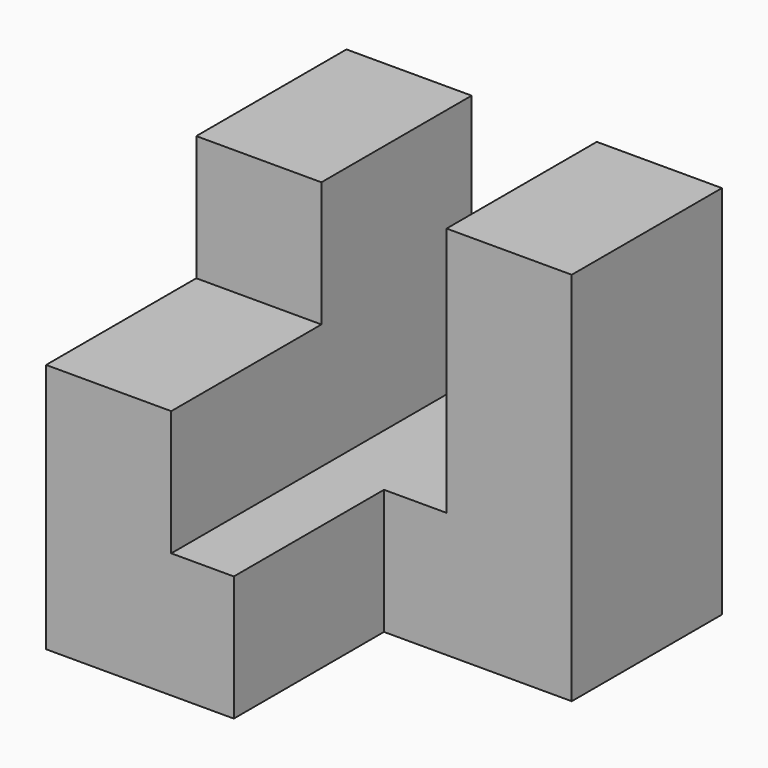
from build123d import *

# Parameters (mm, degrees)
F0_W     = 30
F0_H     = 30
F1_DEPTH = 30
F3_DEPTH = 20
F4_W     = 15
F4_H     = 15
F5_DEPTH = 10.001
F6_W     = 10
F6_H     = 15
F7_DEPTH = 10


with BuildPart() as f1:
    # F0 (on Top) → F1 (new body)
    with BuildSketch(Plane.XY):
        with Locations((15, 15)):
            Rectangle(F0_W, F0_H)
    extrude(amount=F1_DEPTH)

    # F2 (on face) → F3 (cut)
    with BuildSketch(Plane.XY.offset(30)):
        Polygon((10, 30), (10, 0), (15, 0), (20, 0), (30, 0), (30, 15), (20, 15), (20, 30), align=None)
    extrude(amount=-F3_DEPTH, mode=Mode.SUBTRACT)

    # F4 (on face) → F5 (cut, through all)
    with BuildSketch(Plane.XY.offset(10)):
        with Locations((22.5, 7.5)):
            Rectangle(F4_W, F4_H)
    extrude(amount=-F5_DEPTH, mode=Mode.SUBTRACT)

    # F6 (on face) → F7 (cut)
    with BuildSketch(Plane.XY.offset(30)):
        with Locations((5, 7.5)):
            Rectangle(F6_W, F6_H)
    extrude(amount=-F7_DEPTH, mode=Mode.SUBTRACT)


solid = f1.part
